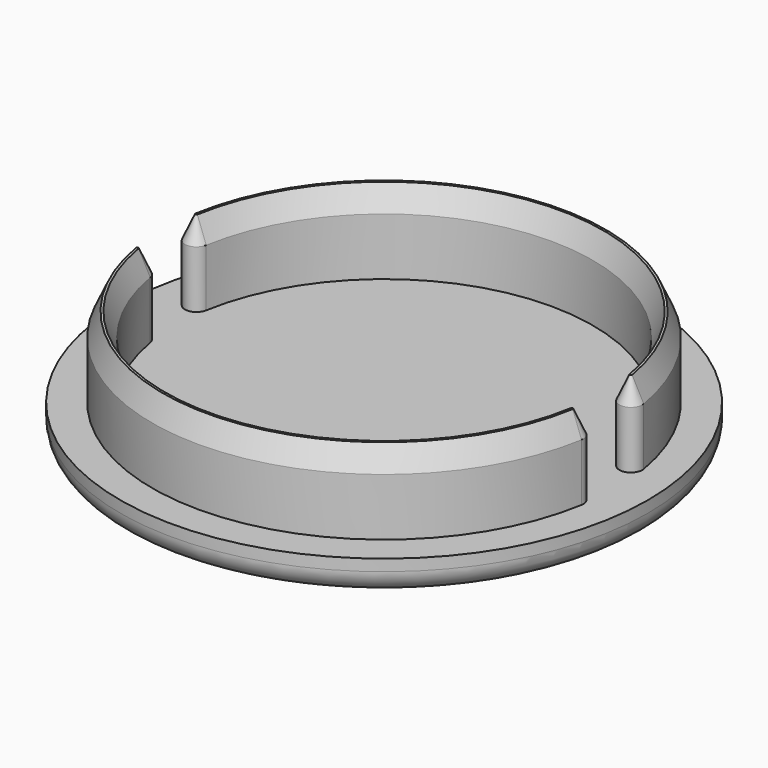
from build123d import *

# Parameters (mm, degrees)
SKETCH_R        = 11.5
PAD_DEPTH       = 1.5
PAD001_DEPTH    = 5
FILLET_R        = 1
CHAMFER_1_SIZE2 = 0.45
CHAMFER_1_SIZE  = 1
CHAMFER_2_SIZE2 = 0.45
CHAMFER_2_SIZE  = 1


with BuildPart() as part:
    # Sketch → Pad (new body)
    with BuildSketch(Plane.XY):
        Circle(SKETCH_R)
    extrude(amount=PAD_DEPTH)

    # Sketch001 (on XY_Plane of Origin) → Pad001 (join)
    with BuildSketch(Plane.XY):
        with BuildLine():
            ThreePointArc((9.957052, 1.693258), (0.000108, 10.1), (-9.957015, 1.693471))
            ThreePointArc((-9.957015, 1.693471), (-9.547929, 1.116714), (-8.971172, 1.5258))
            ThreePointArc((8.971205, 1.525609), (9.7e-05, 9.1), (-8.971172, 1.5258))
            ThreePointArc((8.971205, 1.525609), (9.547953, 1.11651), (9.957052, 1.693258))
        make_face()
        with BuildLine():
            ThreePointArc((-9.957015, -1.693471), (0.000108, -10.1), (9.957052, -1.693258))
            ThreePointArc((9.957052, -1.693258), (9.547953, -1.11651), (8.971205, -1.525609))
            ThreePointArc((-8.971172, -1.5258), (9.7e-05, -9.1), (8.971205, -1.525609))
            ThreePointArc((-8.971172, -1.5258), (-9.547929, -1.116714), (-9.957015, -1.693471))
        make_face()
    extrude(amount=PAD001_DEPTH)

    # Fillet
    fillet_edges = [part.edges().sort_by_distance(p)[0] for p in [
        (-11.5, 0, 0),
    ]]
    fillet(fillet_edges, radius=FILLET_R)

    # Chamfer 1
    chamfer_1_edges = [part.edges().sort_by_distance(p)[0] for p in [
        (0.000108, 10.1, 5),
    ]]
    chamfer_1_side = part.faces().sort_by_distance((0.000108, 10.1, 3.25))[0]
    chamfer(chamfer_1_edges, length=CHAMFER_1_SIZE, length2=CHAMFER_1_SIZE2, reference=chamfer_1_side)

    # Chamfer 2
    chamfer_2_edges = [part.edges().sort_by_distance(p)[0] for p in [
        (0.000108, -10.1, 5),
    ]]
    chamfer_2_side = part.faces().sort_by_distance((0.000108, -10.1, 3.25))[0]
    chamfer(chamfer_2_edges, length=CHAMFER_2_SIZE, length2=CHAMFER_2_SIZE2, reference=chamfer_2_side)


solid = part.part
